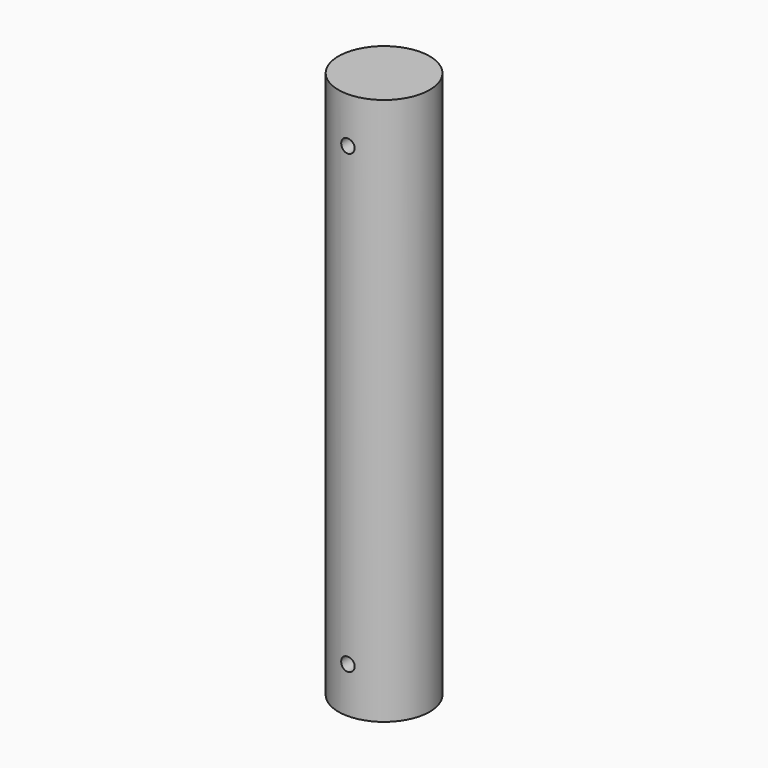
from build123d import *

# Parameters (mm, degrees)
F0_R     = 12.7
F1_DEPTH = 152.4
F2_R     = 1.8796
F3_DEPTH = 25.4
F4_R     = 1.8796
F5_DEPTH = 25.4


with BuildPart() as f1:
    # F0 (on Top) → F1 (new body)
    with BuildSketch(Plane.XY):
        Circle(F0_R)
    extrude(amount=F1_DEPTH)

    # F2 (on Front) → F3 (cut, symmetric)
    with BuildSketch(Plane.XZ):
        with Locations((0, 12.7)):
            Circle(F2_R)
    extrude(amount=F3_DEPTH, both=True, mode=Mode.SUBTRACT)

    # F4 (on Front) → F5 (cut, symmetric)
    with BuildSketch(Plane.XZ):
        with Locations((0, 139.7)):
            Circle(F4_R)
    extrude(amount=F5_DEPTH, both=True, mode=Mode.SUBTRACT)


solid = f1.part
